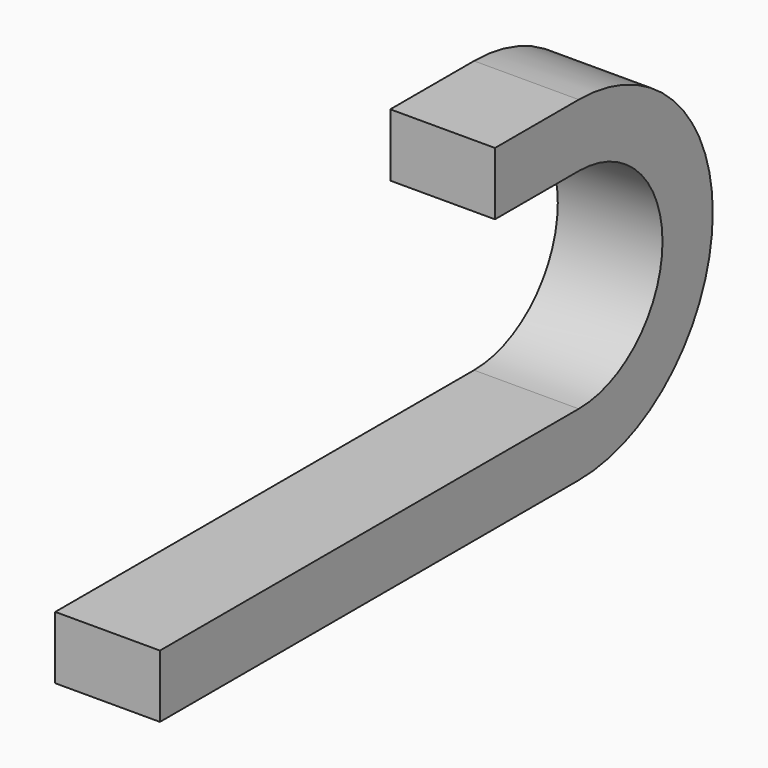
from build123d import *

# Parameters (mm, degrees)
F1_DEPTH = 20


with BuildPart() as f1:
    # F0 (on Right) → F1 (new body)
    with BuildSketch(Plane.YZ):
        with BuildLine():
            Line((100, 0), (0, 0))
            Line((0, 0), (0, -12))
            Line((0, -12), (100, -12))
            ThreePointArc((100, -12), (132, 20), (100, 52))
            Line((100, 52), (80, 52))
            Line((80, 52), (80, 40))
            Line((80, 40), (100, 40))
            ThreePointArc((100, 40), (120, 20), (100, 0))
        make_face()
    extrude(amount=F1_DEPTH)


solid = f1.part
